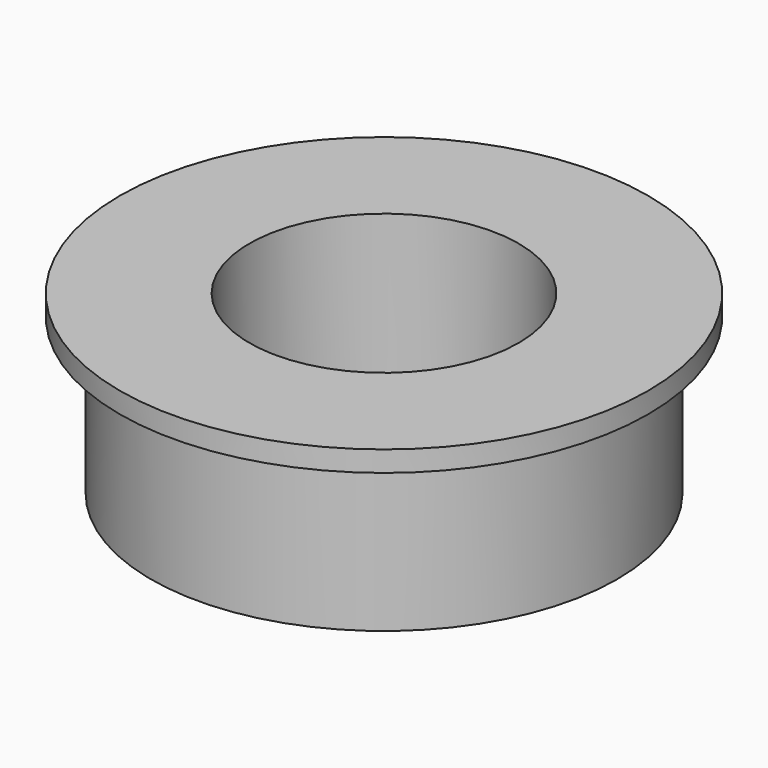
from build123d import *

# Parameters (mm, degrees)
SKETCH_R     = 22.5
PAD_DEPTH    = 7.5
SKETCH001_R  = 25.5
PAD001_DEPTH = 2
SKETCH002_R  = 13
POCKET_DEPTH = 44.501


with BuildPart() as part:
    # Sketch → Pad (new body, symmetric)
    with BuildSketch(Plane.XY):
        Circle(SKETCH_R)
    extrude(amount=PAD_DEPTH, both=True)

    # Sketch001 (on Face3 of Pad) → Pad001 (join)
    with BuildSketch(Plane.XY.offset(7.5)):
        Circle(SKETCH001_R)
    extrude(amount=PAD001_DEPTH)

    # Sketch002 → Pocket (cut, through all)
    with BuildSketch(Plane.XY.offset(37)):
        Circle(SKETCH002_R)
    extrude(amount=-POCKET_DEPTH, mode=Mode.SUBTRACT)


solid = part.part
